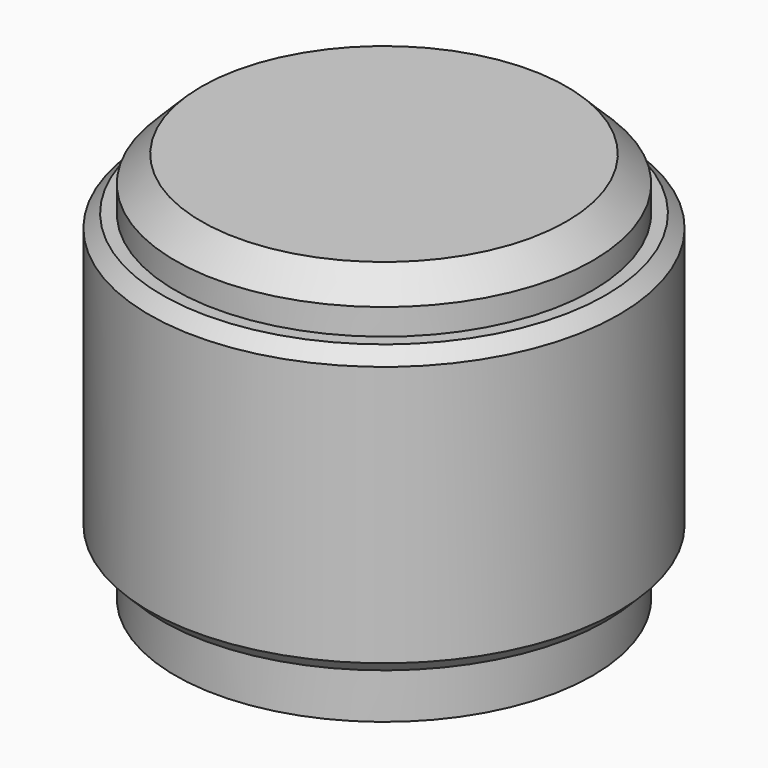
from build123d import *

# Parameters (mm, degrees)
SKETCH_R        = 9
PAD_DEPTH       = 15
POCKET_DEPTH    = 14
SKETCH002_R     = 7
POCKET001_DEPTH = 2
SKETCH003_R     = 1.5
POCKET002_DEPTH = 9.001
SKETCH004_W     = 1
SKETCH004_H     = 2
CHAMFER_SIZE    = 1
CHAMFER001_SIZE = 0.5


with BuildPart() as part:
    # Sketch → Pad (new body)
    with BuildSketch(Plane.XY):
        Circle(SKETCH_R)
    extrude(amount=PAD_DEPTH)

    # Sketch001 → Pocket (cut)
    with BuildSketch(Plane.XY):
        with BuildLine():
            ThreePointArc((-1.658312, 2.5), (0, -3), (1.658312, 2.5))
            Line((-1.658312, 2.5), (1.658312, 2.5))
        make_face()
    extrude(amount=POCKET_DEPTH, mode=Mode.SUBTRACT)

    # Sketch002 → Pocket001 (cut)
    with BuildSketch(Plane.XY):
        Circle(SKETCH002_R)
    extrude(amount=POCKET001_DEPTH, mode=Mode.SUBTRACT)

    # Sketch003 → Pocket002 (cut, through all)
    with BuildSketch(Plane.XZ):
        with Locations((0, 6)):
            Circle(SKETCH003_R)
    extrude(amount=-POCKET002_DEPTH, mode=Mode.SUBTRACT)

    # Sketch004 → Groove (revolve, cut)
    with BuildSketch(Plane.XZ):
        with Locations((8.5, 14)):
            Rectangle(SKETCH004_W, SKETCH004_H)
        with Locations((8.5, 1)):
            Rectangle(SKETCH004_W, SKETCH004_H)
    revolve(axis=Axis((0, 0, 0), (0, 0, 1)), mode=Mode.SUBTRACT)

    # Chamfer
    chamfer_edges = [part.edges().sort_by_distance(p)[0] for p in [
        (-8, 0, 15),
    ]]
    chamfer(chamfer_edges, length=CHAMFER_SIZE)

    # Chamfer001
    chamfer001_edges = [part.edges().sort_by_distance(p)[0] for p in [
        (-9, 0, 2),
        (9, 0, 7.5),
        (-9, 0, 13),
        (-1.5, 8.87412, 6),
    ]]
    chamfer(chamfer001_edges, length=CHAMFER001_SIZE)


solid = part.part
